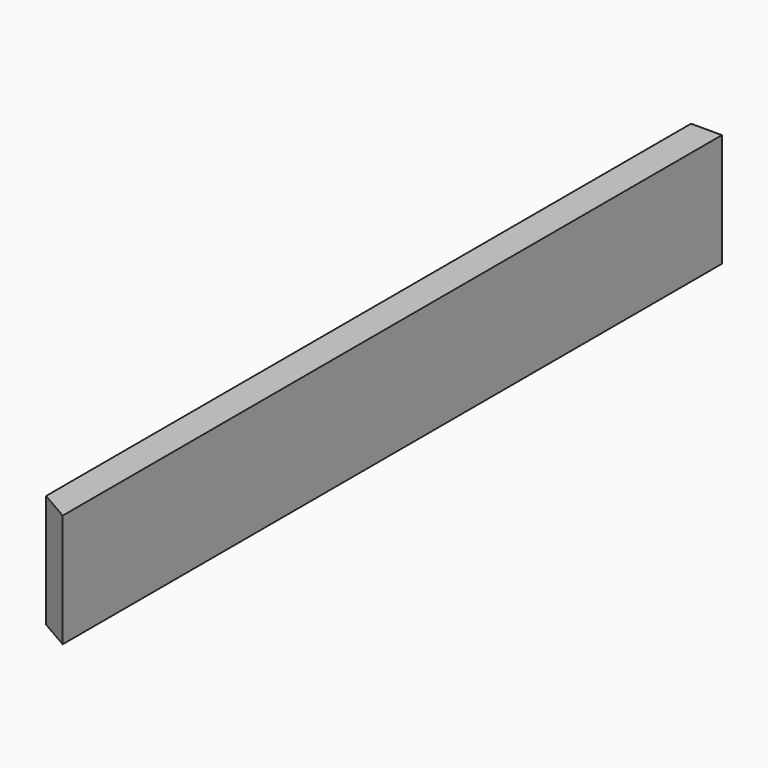
from build123d import *

# Parameters (mm, degrees)
F0_W     = 38.1
F0_H     = 88.9
F1_DEPTH = 1016
F4_DEPTH = 88.9
F5_DEPTH = 50.8


with BuildPart() as f1:
    # F0 (on Front) → F1 (new body)
    with BuildSketch(Plane.XZ):
        with Locations((-19.05, 44.45)):
            Rectangle(F0_W, F0_H)
    extrude(amount=F1_DEPTH)

    # F3 (on face) → F4 (cut)
    with BuildSketch(Plane.XY.offset(88.9)):
        Polygon((-38.1, -1016), (0, -1016), (-38.1, -994.002955), align=None)
    extrude(amount=-F4_DEPTH, mode=Mode.SUBTRACT)

    # F1_face (on face) → F5 (join)
    with BuildSketch(Plane(origin=(-19.05, -508, 88.9), x_dir=(1, 0, 0), z_dir=(0, 0, 1))):
        Polygon((19.05, 508), (-19.05, 508), (-19.05, -486.002955), (19.05, -508), align=None)
    extrude(amount=F5_DEPTH)


with BuildPart() as f2_1:
    # F2: copy of F1
    add(f1.part.moved(Location((76.2, 0, 0))))


solid = f1.part
